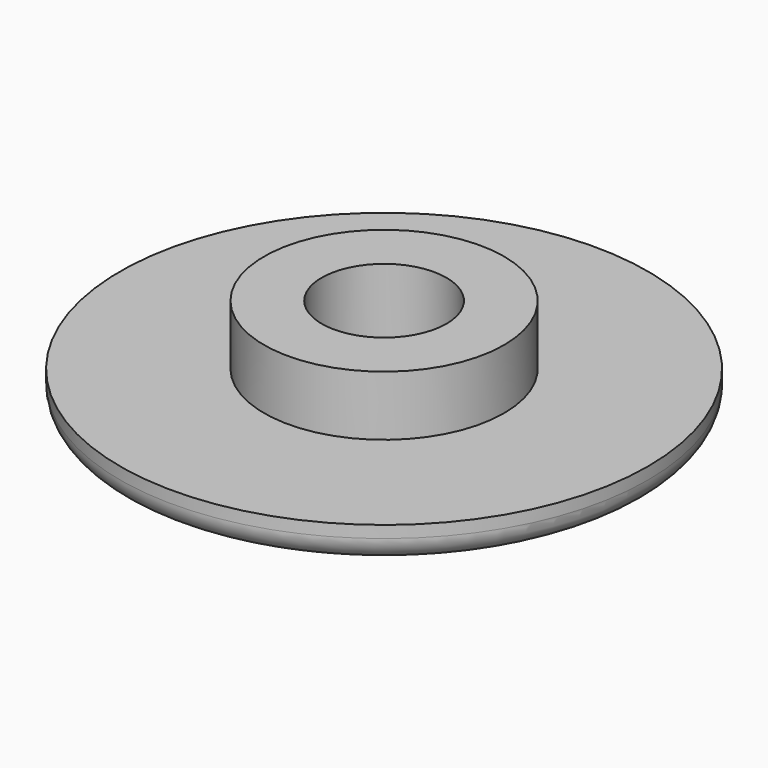
from build123d import *

# Parameters (mm, degrees)
F0_R     = 11
F1_DEPTH = 1.5
F2_R     = 5
F3_DEPTH = 2.5
F4_R     = 2.6
F5_DEPTH = 4
F6_R     = 1


with BuildPart() as f1:
    # F0 (on Top) → F1 (new body)
    with BuildSketch(Plane.XY):
        Circle(F0_R)
    extrude(amount=-F1_DEPTH)

    # F2 (on face) → F3 (join)
    with BuildSketch(Plane.XY):
        Circle(F2_R)
    extrude(amount=F3_DEPTH)

    # F4 (on face) → F5 (cut)
    with BuildSketch(Plane.XY.offset(2.5)):
        Circle(F4_R)
    extrude(amount=-F5_DEPTH, mode=Mode.SUBTRACT)

    # F6
    f6_edges = [f1.edges().sort_by_distance(p)[0] for p in [
        (-11, 0, -1.5),
    ]]
    fillet(f6_edges, radius=F6_R)


solid = f1.part
